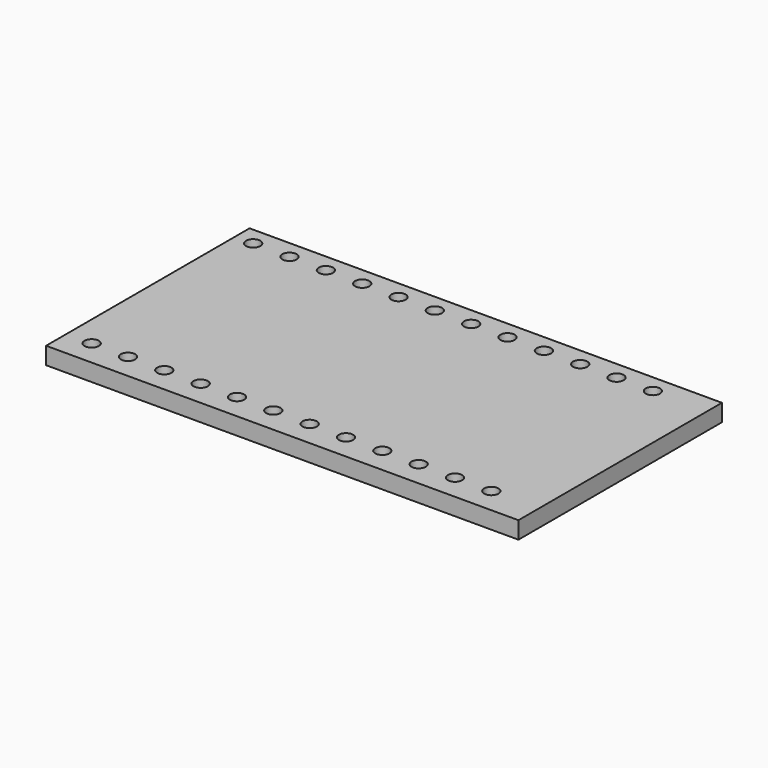
from build123d import *

# Parameters (mm, degrees)
F0_W     = 33.02
F0_H     = 17.78
F1_DEPTH = 1.2
F2_R     = 0.5
F3_DEPTH = 1.201


with BuildPart() as f1:
    # F0 (on Top) → F1 (new body)
    with BuildSketch(Plane.XY):
        with Locations((16.51, 8.89)):
            Rectangle(F0_W, F0_H)
    extrude(amount=F1_DEPTH)

    # F2 (on face) → F3 (cut, through all)
    with BuildSketch(Plane.XY.offset(1.2)):
        with Locations((1.27, 16.51)):
            Circle(F2_R)
        with Locations((3.81, 16.51)):
            Circle(F2_R)
        with Locations((6.35, 16.51)):
            Circle(F2_R)
        with Locations((8.89, 16.51)):
            Circle(F2_R)
        with Locations((11.43, 16.51)):
            Circle(F2_R)
        with Locations((13.97, 16.51)):
            Circle(F2_R)
        with Locations((16.51, 16.51)):
            Circle(F2_R)
        with Locations((19.05, 16.51)):
            Circle(F2_R)
        with Locations((21.59, 16.51)):
            Circle(F2_R)
        with Locations((24.13, 16.51)):
            Circle(F2_R)
        with Locations((26.67, 16.51)):
            Circle(F2_R)
        with Locations((29.21, 16.51)):
            Circle(F2_R)
        with Locations((29.71, 1.77)):
            Circle(F2_R)
        with Locations((27.17, 1.77)):
            Circle(F2_R)
        with Locations((24.63, 1.77)):
            Circle(F2_R)
        with Locations((22.09, 1.77)):
            Circle(F2_R)
        with Locations((19.55, 1.77)):
            Circle(F2_R)
        with Locations((17.01, 1.77)):
            Circle(F2_R)
        with Locations((14.47, 1.77)):
            Circle(F2_R)
        with Locations((11.93, 1.77)):
            Circle(F2_R)
        with Locations((9.39, 1.77)):
            Circle(F2_R)
        with Locations((6.85, 1.77)):
            Circle(F2_R)
        with Locations((4.31, 1.77)):
            Circle(F2_R)
        with Locations((1.77, 1.77)):
            Circle(F2_R)
    extrude(amount=-F3_DEPTH, mode=Mode.SUBTRACT)


solid = f1.part
